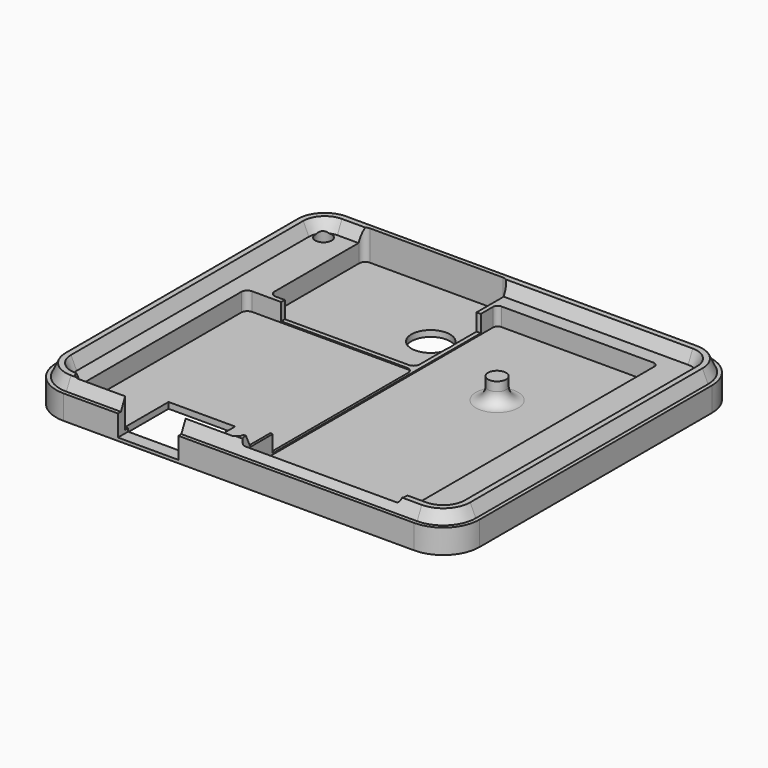
from build123d import *

# Parameters (mm, degrees)
PAD015_DEPTH         = 6
SKETCH035_W          = 80
SKETCH035_H          = 14
POCKET011_DEPTH      = 60.001
POCKET011_DEPTH_BACK = 0.001
POCKET020_DEPTH      = 5.001
POCKET021_DEPTH      = 5.001
POCKET022_DEPTH      = 5.001
SKETCH054_W          = 34
SKETCH054_H          = 43
POCKET023_DEPTH      = 4.801
SKETCH055_R          = 3.2
POCKET024_DEPTH      = 6.001
SKETCH056_W          = 11
SKETCH056_H          = 9
POCKET025_DEPTH      = 6.001
SKETCH057_W          = 10
SKETCH057_H          = 8
POCKET026_DEPTH      = 5


with BuildPart() as part:
    # Sketch033 → Pad015 (new body, symmetric)
    with BuildSketch(Plane.XY):
        with BuildLine():
            Line((29, 60), (-29, 60))
            ThreePointArc((-29, 60), (-33.242641, 58.242641), (-35, 54))
            Line((-35, 54), (-35, 6))
            ThreePointArc((-35, 6), (-33.242641, 1.757359), (-29, 0))
            Line((-29, 0), (29, 0))
            ThreePointArc((29, 0), (33.242641, 1.757359), (35, 6))
            Line((35, 6), (35, 54))
            ThreePointArc((35, 54), (33.242641, 58.242641), (29, 60))
        make_face()
    extrude(amount=PAD015_DEPTH, both=True)

    # Sketch035 → Pocket011 (cut, two sides)
    with BuildSketch(Plane.XZ) as pocket011_sk:
        with Locations((0, 5)):
            Rectangle(SKETCH035_W, SKETCH035_H)
    extrude(amount=-POCKET011_DEPTH, mode=Mode.SUBTRACT)
    extrude(pocket011_sk.sketch, amount=POCKET011_DEPTH_BACK, mode=Mode.SUBTRACT)

    # AdditivePipe: sweep along a path in Sketch033
    with BuildLine(Plane.XY) as additivepipe_path:
        Line((29, 60), (-29, 60))
        ThreePointArc((-29, 60), (-33.242641, 58.242641), (-35, 54))
        Line((-35, 54), (-35, 6))
        ThreePointArc((-35, 6), (-33.242641, 1.757359), (-29, 0))
        Line((-29, 0), (29, 0))
        ThreePointArc((29, 0), (33.242641, 1.757359), (35, 6))
        Line((35, 6), (35, 54))
        ThreePointArc((35, 54), (33.242641, 58.242641), (29, 60))
    # Sketch058 → AdditivePipe (sweep)
    with BuildSketch(Plane.XZ.offset(-30)):
        Polygon((34.382615, -2), (31.617385, -2), (32.55, 0), (33.45, 0), align=None)
    sweep(path=additivepipe_path.line)

    # Sketch050 → Pocket020 (cut, through all)
    with BuildSketch(Plane.XY.offset(-5)):
        with BuildLine():
            Line((0, 54.3), (25.1, 54.3))
            ThreePointArc((25.9, 53.5), (25.665685, 54.065685), (25.1, 54.3))
            Line((25.9, 53.5), (25.9, 2))
            ThreePointArc((25.1, 1.2), (25.665685, 1.434315), (25.9, 2))
            Line((25.1, 1.2), (0, 1.2))
            ThreePointArc((-0.8, 2), (-0.565685, 1.434315), (0, 1.2))
            Line((-0.8, 2), (-0.8, 53.5))
            ThreePointArc((0, 54.3), (-0.565685, 54.065685), (-0.8, 53.5))
        make_face()
    extrude(amount=POCKET020_DEPTH, mode=Mode.SUBTRACT)

    # Sketch052 → Pocket021 (cut, through all)
    with BuildSketch(Plane(origin=(0, -6, -5), x_dir=(1, 0, 0), z_dir=(0, 0, 1))):
        with BuildLine():
            Line((-27.8, 43.5), (-2.2, 43.5))
            ThreePointArc((-1.2, 42.5), (-1.492893, 43.207107), (-2.2, 43.5))
            Line((-1.2, 42.5), (-1.2, 8.5))
            ThreePointArc((-2.2, 7.5), (-1.492893, 7.792893), (-1.2, 8.5))
            Line((-2.2, 7.5), (-27.8, 7.5))
            ThreePointArc((-28.8, 8.5), (-28.507107, 7.792893), (-27.8, 7.5))
            Line((-28.8, 8.5), (-28.8, 42.5))
            ThreePointArc((-27.8, 43.5), (-28.507107, 43.207107), (-28.8, 42.5))
        make_face()
    extrude(amount=POCKET021_DEPTH, mode=Mode.SUBTRACT)

    # Sketch051 → Pocket022 (cut, through all)
    with BuildSketch(Plane(origin=(0, -6, -5), x_dir=(1, 0, 0), z_dir=(0, 0, 1))):
        with BuildLine():
            Line((-24.5, 63.75), (-2.5, 63.75))
            ThreePointArc((-1.5, 62.75), (-1.792893, 63.457107), (-2.5, 63.75))
            Line((-1.5, 62.75), (-1.5, 45.25))
            ThreePointArc((-2.5, 44.25), (-1.792893, 44.542893), (-1.5, 45.25))
            Line((-2.5, 44.25), (-24.5, 44.25))
            ThreePointArc((-25.5, 45.25), (-25.207107, 44.542893), (-24.5, 44.25))
            Line((-25.5, 45.25), (-25.5, 62.75))
            ThreePointArc((-24.5, 63.75), (-25.207107, 63.457107), (-25.5, 62.75))
        make_face()
    extrude(amount=POCKET022_DEPTH, mode=Mode.SUBTRACT)

    # Sketch047 → Groove002 (revolve, cut)
    with BuildSketch(Plane.XZ.offset(-55)):
        Polygon((-30, 4.5), (-29.6, 4.5), (-28.2, -5), (-27.2, -6), (-30, -6), align=None)
    revolve(axis=Axis((-30, 55, 4.5), (0, 0, 1)), mode=Mode.SUBTRACT)

    # Sketch046 → Groove003 (revolve, cut)
    with BuildSketch(Plane.XZ.offset(-5)):
        Polygon((30, 4.5), (30.4, 4.5), (31.8, -5), (32.8, -6), (30, -6), align=None)
    revolve(axis=Axis((30, 5, 4.5), (0, 0, 1)), mode=Mode.SUBTRACT)

    # Sketch054 → Pocket023 (cut, through all)
    with BuildSketch(Plane.XY.offset(-4.8)):
        with Locations((-6, 29.5)):
            Rectangle(SKETCH054_W, SKETCH054_H)
    extrude(amount=POCKET023_DEPTH, mode=Mode.SUBTRACT)

    # Sketch055 → Pocket024 (cut, through all)
    with BuildSketch(Plane.XY):
        with Locations((-4.631189, 45.448315)):
            Circle(SKETCH055_R)
    extrude(amount=-POCKET024_DEPTH, mode=Mode.SUBTRACT)

    # Sketch056 → Pocket025 (cut, through all)
    with BuildSketch(Plane.XY):
        with Locations((-15, 6.6)):
            Rectangle(SKETCH056_W, SKETCH056_H)
    extrude(amount=-POCKET025_DEPTH, mode=Mode.SUBTRACT)

    # Sketch057 → Pocket026 (cut)
    with BuildSketch(Plane.XZ):
        with Locations((-15, -1.5)):
            Rectangle(SKETCH057_W, SKETCH057_H)
    extrude(amount=-POCKET026_DEPTH, mode=Mode.SUBTRACT)

    # Sketch053 → Revolution002 (revolve)
    with BuildSketch(Plane.YZ.offset(12.3)):
        with BuildLine():
            Line((38, -1.5), (38, -5))
            Line((38, -5), (41.5, -5))
            ThreePointArc((39.5, -3), (40.085786, -4.414214), (41.5, -5))
            Line((39.5, -3), (39.5, -1.5))
            Line((39.5, -1.5), (38, -1.5))
        make_face()
    revolve(axis=Axis((12.3, 38, -1.5), (0, 0, 1)))


solid = part.part
